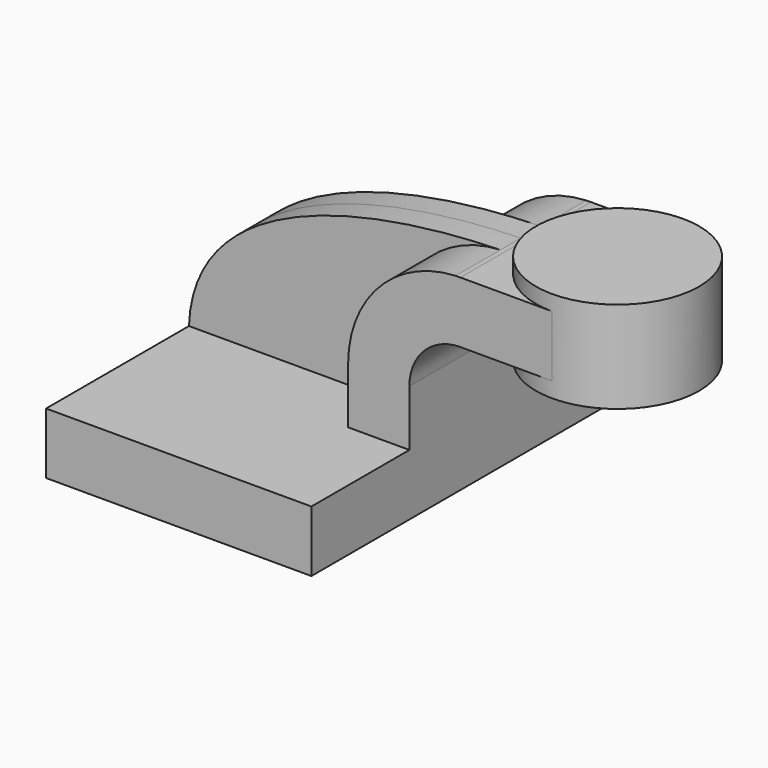
from build123d import *

# Parameters (mm, degrees)
F1_DEPTH = 63.5
F0_W     = 25.4
F0_H     = 19.05
F2_DEPTH = 25.4
F3_DEPTH = 7.9375


with BuildPart() as f1:
    # F0 (on Front) → F1 (new body, symmetric)
    with BuildSketch(Plane.XZ):
        Polygon((41.275, -9.525), (41.275, 9.525), (22.225, 9.525), (-41.275, 9.525), (-41.275, -9.525), align=None)
    extrude(amount=F1_DEPTH, both=True)

    # F0 (on Front) → F2 (join, symmetric)
    with BuildSketch(Plane.XZ):
        with BuildLine():
            Line((22.225, 9.525), (41.275, 9.525))
            Line((41.275, 9.525), (41.275, 27.0002))
            ThreePointArc((41.275, 27.0002), (45.9246798487, 38.2255201513), (57.15, 42.8752))
            Line((57.15, 42.8752), (60.325, 42.8752))
            Line((60.325, 42.8752), (60.325, 61.9252))
            Line((60.325, 61.9252), (57.15, 61.9252))
            add(Edge.make_bspline(
                [(55.6374674655, 61.8924322349), (56.1423918101, 61.9048336292), (56.6465953403, 61.9157496607), (57.15, 61.9252)],
                knots=[110.2644548884, 110.2644548884, 110.2644548884, 110.2644548884, 111.5045361635, 111.5045361635, 111.5045361635, 111.5045361635], degree=3))
            ThreePointArc((55.6374674655, 61.8924322349), (31.9252024412, 51.1552245936), (22.225, 27.0002))
            Line((22.225, 27.0002), (22.225, 9.525))
        make_face()
        with Locations((73.025, 52.4002)):
            Rectangle(F0_W, F0_H)
    extrude(amount=F2_DEPTH, both=True)

    # F0 (on Front) → F3 (join, symmetric)
    with BuildSketch(Plane.XZ):
        with BuildLine():
            Line((-41.275, 9.525), (22.225, 9.525))
            Line((22.225, 9.525), (22.225, 27.0002))
            ThreePointArc((22.225, 27.0002), (31.9252024412, 51.1552245936), (55.6374674655, 61.8924322349))
            add(Edge.make_bspline(
                [(-41.275, 9.525), (-39.8543103668, 47.9433842004), (10.7410491974, 60.789735975), (55.6374674655, 61.8924322349)],
                knots=[0, 0, 0, 0, 110.2644548884, 110.2644548884, 110.2644548884, 110.2644548884], degree=3))
        make_face()
    extrude(amount=F3_DEPTH, both=True)

    # F0 (on Front) → F4 (revolve)
    with BuildSketch(Plane.XZ):
        Polygon((85.725, 61.9252), (85.725, 42.8752), (85.725, 38.1), (111.125, 38.1), (111.125, 66.675), (85.725, 66.675), align=None)
    revolve(axis=Axis((85.725, 0, 52.3875), (0, 0, 1)))


solid = f1.part
